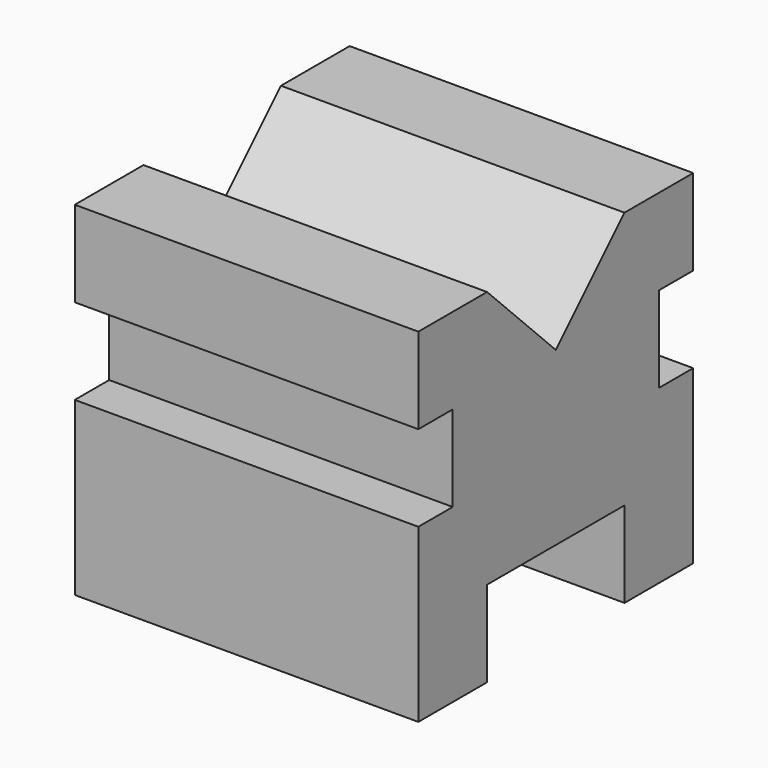
from build123d import *

# Parameters (mm, degrees)
F0_W     = 101.6
F0_H     = 101.6
F1_DEPTH = 101.6
F2_W     = 12.7
F2_H     = 25.4
F3_DEPTH = 101.6
F4_W     = 12.7
F4_H     = 25.4
F5_DEPTH = 101.6
F6_W     = 50.8
F6_H     = 25.4
F7_DEPTH = 101.6
F9_DEPTH = 101.6


with BuildPart() as f1:
    # F0 (on Front) → F1 (new body)
    with BuildSketch(Plane.XZ):
        with Locations((50.8, 50.8)):
            Rectangle(F0_W, F0_H)
    extrude(amount=-F1_DEPTH)

    # F2 (on face) → F3 (cut)
    with BuildSketch(Plane.YZ.offset(101.6)):
        with Locations((6.35, 63.5)):
            Rectangle(F2_W, F2_H)
    extrude(amount=-F3_DEPTH, mode=Mode.SUBTRACT)

    # F4 (on face) → F5 (cut)
    with BuildSketch(Plane.YZ.offset(101.6)):
        with Locations((95.25, 63.5)):
            Rectangle(F4_W, F4_H)
    extrude(amount=-F5_DEPTH, mode=Mode.SUBTRACT)

    # F6 (on face) → F7 (cut)
    with BuildSketch(Plane.YZ.offset(101.6)):
        with Locations((50.8, 12.7)):
            Rectangle(F6_W, F6_H)
    extrude(amount=-F7_DEPTH, mode=Mode.SUBTRACT)

    # F8 (on face) → F9 (cut)
    with BuildSketch(Plane.YZ.offset(101.6)):
        Polygon((50.8, 101.6), (25.4, 101.6), (50.8, 76.2), align=None)
        Polygon((50.8, 101.6), (50.8, 76.2), (76.2, 101.6), align=None)
    extrude(amount=-F9_DEPTH, mode=Mode.SUBTRACT)


solid = f1.part
